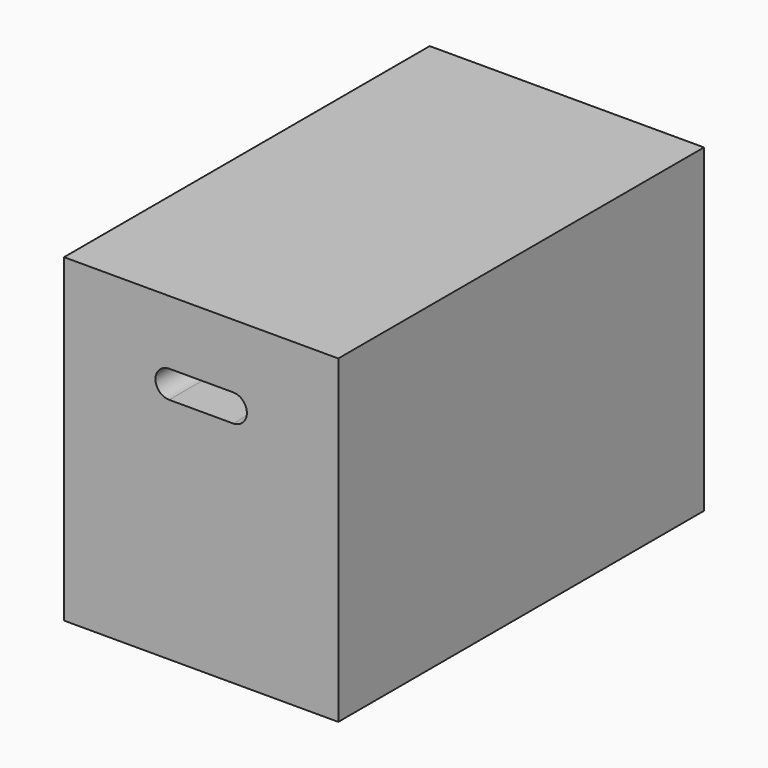
from build123d import *

# Parameters (mm, degrees)
F0_W     = 30
F0_H     = 50
F1_DEPTH = 35
F3_DEPTH = 10


with BuildPart() as f1:
    # F0 (on Top) → F1 (new body)
    with BuildSketch(Plane.XY):
        Rectangle(F0_W, F0_H)
    extrude(amount=F1_DEPTH)

    # F2 (on face) → F3 (cut)
    with BuildSketch(Plane.XZ.offset(25)):
        with BuildLine():
            Line((-3.5, 25), (0, 25))
            Line((0, 25), (3.5, 25))
            ThreePointArc((3.5, 25), (5, 26.5), (3.5, 28))
            Line((3.5, 28), (0, 28))
            Line((0, 28), (-3.5, 28))
            ThreePointArc((-3.5, 28), (-5, 26.5), (-3.5, 25))
        make_face()
    extrude(amount=-F3_DEPTH, mode=Mode.SUBTRACT)


solid = f1.part
